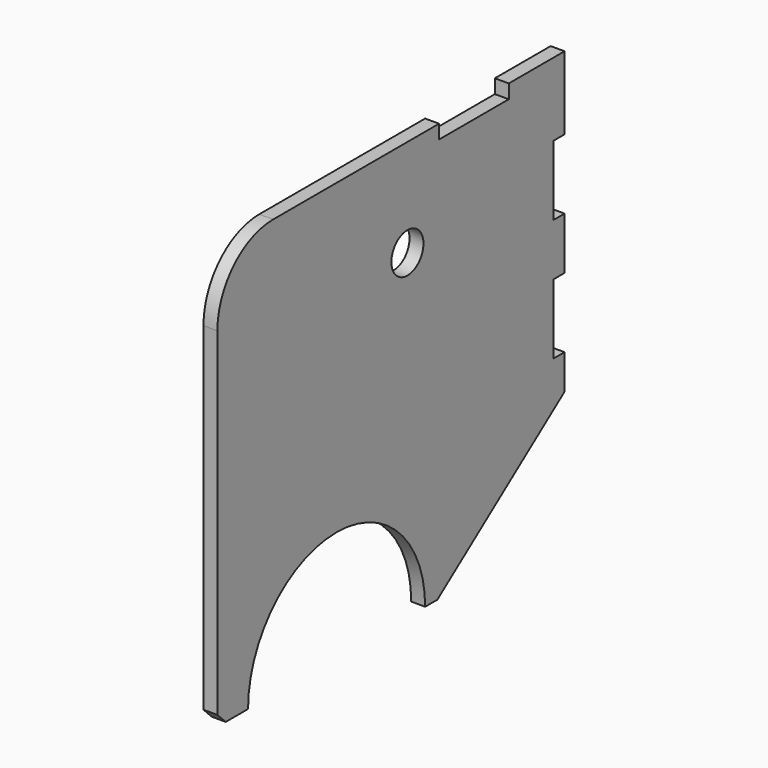
from build123d import *

# Parameters (mm, degrees)
F0_R     = 5.75
F1_DEPTH = 4


with BuildPart() as f1:
    # F0 (on Right) → F1 (new body)
    with BuildSketch(Plane.YZ):
        with BuildLine():
            ThreePointArc((-60.790281, -74.161179), (-29.049612, -42.411181), (2.709714, -74.142517))
            Line((2.709714, -74.142517), (7.099063, -74.142517))
            Line((7.099063, -74.142517), (52.709719, -40.161179))
            Line((52.709719, -40.161179), (52.709719, -30.161179))
            Line((52.709719, -30.161179), (48.709719, -30.161179))
            Line((48.709719, -30.161179), (48.709719, -10.161179))
            Line((48.709719, -10.161179), (52.709719, -10.161179))
            Line((52.709719, -10.161179), (52.709719, 4.838821))
            Line((52.709719, 4.838821), (48.709719, 4.838821))
            Line((48.709719, 4.838821), (48.709719, 24.838821))
            Line((48.709719, 24.838821), (52.709719, 24.838821))
            Line((52.709719, 24.838821), (52.709719, 45.838821))
            Line((52.709719, 45.838821), (32.709719, 45.838821))
            Line((32.709719, 45.838821), (32.709719, 41.838821))
            Line((32.709719, 41.838821), (7.709719, 41.838821))
            Line((7.709719, 41.838821), (7.709719, 45.838821))
            Line((7.709719, 45.838821), (-51.790281, 45.838821))
            ThreePointArc((-51.790281, 45.838821), (-65.932416, 39.980956), (-71.790281, 25.838821))
            Line((-71.790281, 25.838821), (-71.790281, -71.161179))
            Line((-71.790281, -71.161179), (-68.790281, -74.161179))
            Line((-68.790281, -74.161179), (-60.790281, -74.161179))
        make_face()
        with Locations((-3.640281, 17.838821)):
            Circle(F0_R, mode=Mode.SUBTRACT)
    extrude(amount=F1_DEPTH)


solid = f1.part
